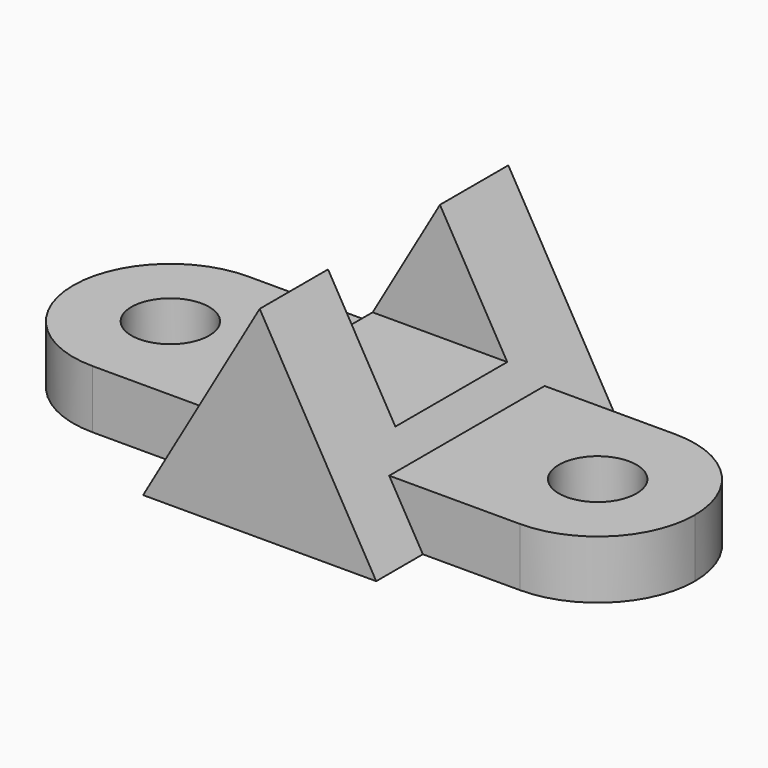
from build123d import *

# Parameters (mm, degrees)
F2_DEPTH = 40
F0_R     = 10
F3_DEPTH = 15
F4_W     = 36
F4_H     = 30
F5_DEPTH = 30


with BuildPart() as f2:
    # F1 (on Front) → F2 (new body, symmetric)
    with BuildSketch(Plane.XZ):
        Polygon((-30, 0), (30, 0), (0, 51.9615242271), align=None)
    extrude(amount=F2_DEPTH, both=True)

    # F0 (on Top) → F3 (join)
    with BuildSketch(Plane.XY):
        with BuildLine():
            ThreePointArc((55, -25), (72.6776695297, -17.6776695297), (80, 0))
            ThreePointArc((80, 0), (72.6776695297, 17.6776695297), (55, 25))
            ThreePointArc((55, 25), (30, 0), (55, -25))
        make_face()
        with Locations((55, 0)):
            Circle(F0_R, mode=Mode.SUBTRACT)
        with BuildLine():
            ThreePointArc((55, -25), (30, 0), (55, 25))
            Line((55, 25), (30, 25))
            Line((30, 25), (0, 25))
            Line((0, 25), (-30, 25))
            Line((-30, 25), (-55, 25))
            ThreePointArc((-55, 25), (-37.3223304703, 17.6776695297), (-30, 0))
            ThreePointArc((-30, 0), (-37.3223304703, -17.6776695297), (-55, -25))
            Line((-55, -25), (-30, -25))
            Line((-30, -25), (0, -25))
            Line((0, -25), (30, -25))
            Line((30, -25), (55, -25))
        make_face()
        with BuildLine():
            ThreePointArc((-30, 0), (-37.3223304703, 17.6776695297), (-55, 25))
            ThreePointArc((-55, 25), (-80, 0), (-55, -25))
            ThreePointArc((-55, -25), (-37.3223304703, -17.6776695297), (-30, 0))
        make_face()
        with Locations((-55, 0)):
            Circle(F0_R, mode=Mode.SUBTRACT)
    extrude(amount=F3_DEPTH)

    # F4 (on Right) → F5 (cut, symmetric)
    with BuildSketch(Plane.YZ):
        with Locations((0, 36.9615242271)):
            Rectangle(F4_W, F4_H)
    extrude(amount=F5_DEPTH, both=True, mode=Mode.SUBTRACT)


solid = f2.part
